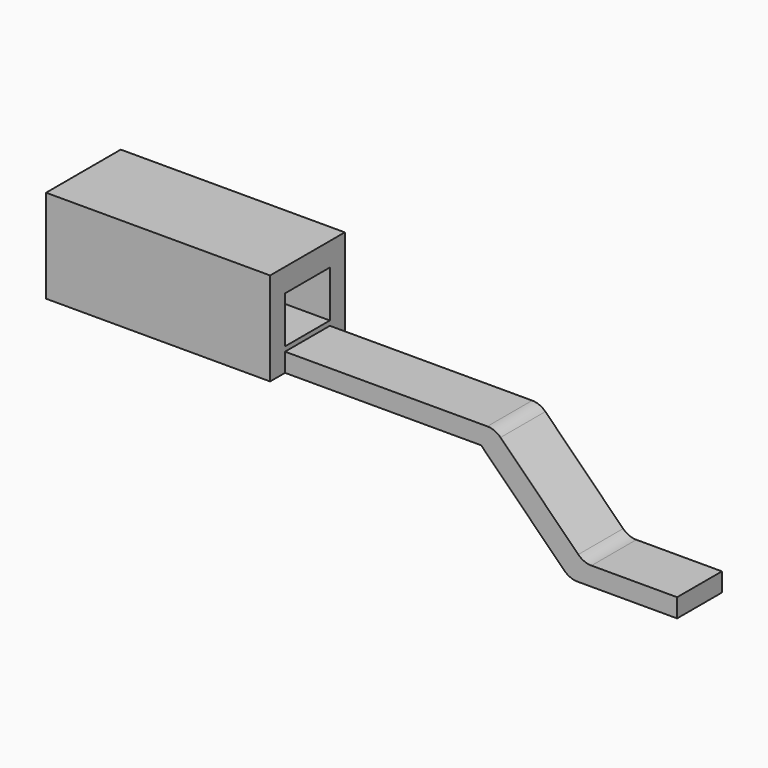
from build123d import *

# Parameters (mm, degrees)
BOX127_W     = 1.2
BOX127_H     = 0.5
BOX127_DEPTH = 0.5
BOX128_W     = 1.5
BOX128_H     = 0.3
BOX128_DEPTH = 0.1
BOX129_W     = 1.3
BOX129_H     = 0.3
BOX129_DEPTH = 0.575
BOX130_W     = 0.25
BOX130_H     = 0.3
BOX130_DEPTH = 0.475
BOX131_W     = 0.5
BOX131_H     = 0.3
BOX131_DEPTH = 0.5
BOX132_W     = 0.5
BOX132_H     = 0.3
BOX132_DEPTH = 0.75
BOX133_W     = 0.4
BOX133_H     = 0.3
BOX133_DEPTH = 0.75
FILLET018_R  = 0.1
FILLET019_R  = 0.1
BOX134_W     = 1.5
BOX134_H     = 0.3
BOX134_DEPTH = 0.25
FILLET028_R  = 0.1


with BuildPart() as part:
    # Box127 → Box127 (join)
    with BuildSketch(Plane(origin=(-2, 4.25, 0.475), x_dir=(1, 0, 0), z_dir=(0, 0, 1))):
        with Locations((0.6, 0.25)):
            Rectangle(BOX127_W, BOX127_H)
    extrude(amount=BOX127_DEPTH)

    # Box128 → Box128 (join)
    with BuildSketch(Plane(origin=(-0.8, 4.35, 0.475), x_dir=(1, 0, 0), z_dir=(0, 0, 1))):
        with Locations((0.75, 0.15)):
            Rectangle(BOX128_W, BOX128_H)
    extrude(amount=BOX128_DEPTH)

    # Box129 → Box129 (join)
    with BuildSketch(Plane(origin=(0, 4.35, 0), x_dir=(1, 0, 0), z_dir=(0, 0, 1))):
        with Locations((0.65, 0.15)):
            Rectangle(BOX129_W, BOX129_H)
    extrude(amount=BOX129_DEPTH)

    # Box130 → Box130 (cut)
    with BuildSketch(Plane(origin=(0, 4.35, 0), x_dir=(1, 0, 0), z_dir=(0, 0, 1))):
        with Locations((0.125, 0.15)):
            Rectangle(BOX130_W, BOX130_H)
    extrude(amount=BOX130_DEPTH, mode=Mode.SUBTRACT)

    # Box131 → Box131 (cut)
    with BuildSketch(Plane(origin=(0.8, 4.35, 0.1), x_dir=(1, 0, 0), z_dir=(0, 0, 1))):
        with Locations((0.25, 0.15)):
            Rectangle(BOX131_W, BOX131_H)
    extrude(amount=BOX131_DEPTH, mode=Mode.SUBTRACT)

    # Box132 → Box132 (cut)
    with BuildSketch(Plane(origin=(0.8, 4.35, 0.1), x_dir=(0.707107, 0, 0.707107), z_dir=(-0.707107, 0, 0.707107))):
        with Locations((0.25, 0.15)):
            Rectangle(BOX132_W, BOX132_H)
    extrude(amount=BOX132_DEPTH, mode=Mode.SUBTRACT)

    # Box133 → Box133 (cut)
    with BuildSketch(Plane(origin=(0.4975, 4.35, -0.338), x_dir=(0.707107, 0, 0.707107), z_dir=(-0.707107, 0, 0.707107))):
        with Locations((0.2, 0.15)):
            Rectangle(BOX133_W, BOX133_H)
    extrude(amount=BOX133_DEPTH, mode=Mode.SUBTRACT)

    # Fillet018
    fillet018_edges = [part.edges().sort_by_distance(p)[0] for p in [
        (0.325, 4.5, 0.575),
    ]]
    fillet(fillet018_edges, radius=FILLET018_R)

    # Fillet019
    fillet019_edges = [part.edges().sort_by_distance(p)[0] for p in [
        (0.725185, 4.5, 0),
    ]]
    fillet(fillet019_edges, radius=FILLET019_R)

    # Box134 → Box134 (cut)
    with BuildSketch(Plane(origin=(-2, 4.35, 0.6), x_dir=(1, 0, 0), z_dir=(0, 0, 1))):
        with Locations((0.75, 0.15)):
            Rectangle(BOX134_W, BOX134_H)
    extrude(amount=BOX134_DEPTH, mode=Mode.SUBTRACT)

    # Fillet028
    fillet028_edges = [part.edges().sort_by_distance(p)[0] for p in [
        (0.8, 4.5, 0.1),
    ]]
    fillet(fillet028_edges, radius=FILLET028_R)


with BuildPart() as part_1:
    # Body043 placement: moved
    add(part.part.moved(Location((0, -2.5, 0))))


solid = part_1.part
